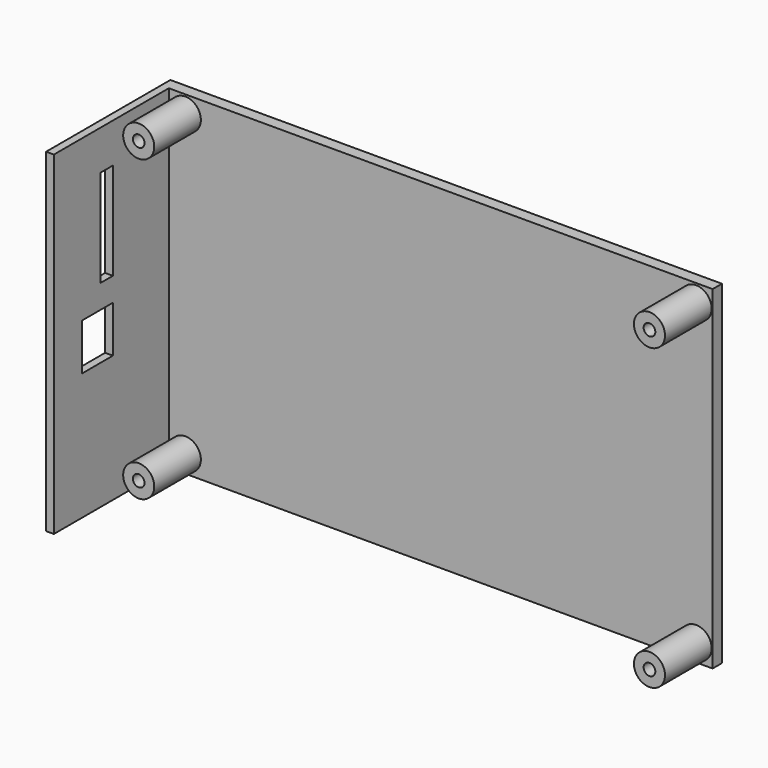
from build123d import *

# Parameters (mm, degrees)
F0_W     = 140
F0_H     = 86
F1_DEPTH = 3
F2_R     = 4
F2_R_2   = 1.5
F3_DEPTH = 15
F4_W     = 40
F4_H     = 86
F4_W_2   = 10
F4_H_2   = 12
F4_W_3   = 4
F4_H_3   = 25
F5_DEPTH = 2


with BuildPart() as f1:
    # F0 (on Front) → F1 (new body)
    with BuildSketch(Plane.XZ):
        Rectangle(F0_W, F0_H)
    extrude(amount=-F1_DEPTH)

    # F2 (on face) → F3 (join)
    with BuildSketch(Plane.XZ):
        with Locations((65.75, 38.5)):
            Circle(F2_R)
        with Locations((65.75, 38.5)):
            Circle(F2_R_2, mode=Mode.SUBTRACT)
        with Locations((-65.75, 38.5)):
            Circle(F2_R)
        with Locations((-65.75, 38.5)):
            Circle(F2_R_2, mode=Mode.SUBTRACT)
        with Locations((-65.75, -38.5)):
            Circle(F2_R)
        with Locations((-65.75, -38.5)):
            Circle(F2_R_2, mode=Mode.SUBTRACT)
        with Locations((65.75, -38.5)):
            Circle(F2_R)
        with Locations((65.75, -38.5)):
            Circle(F2_R_2, mode=Mode.SUBTRACT)
    extrude(amount=F3_DEPTH)

    # F4 (on face) → F5 (join)
    with BuildSketch(Plane(origin=(-70, 0, 0), x_dir=(0, -1, 0), z_dir=(-1, 0, 0))):
        with Locations((17, 0)):
            Rectangle(F4_W, F4_H)
        with Locations((23, -4.3)):
            Rectangle(F4_W_2, F4_H_2, mode=Mode.SUBTRACT)
        with Locations((20, 20.3)):
            Rectangle(F4_W_3, F4_H_3, mode=Mode.SUBTRACT)
    extrude(amount=F5_DEPTH)


solid = f1.part
